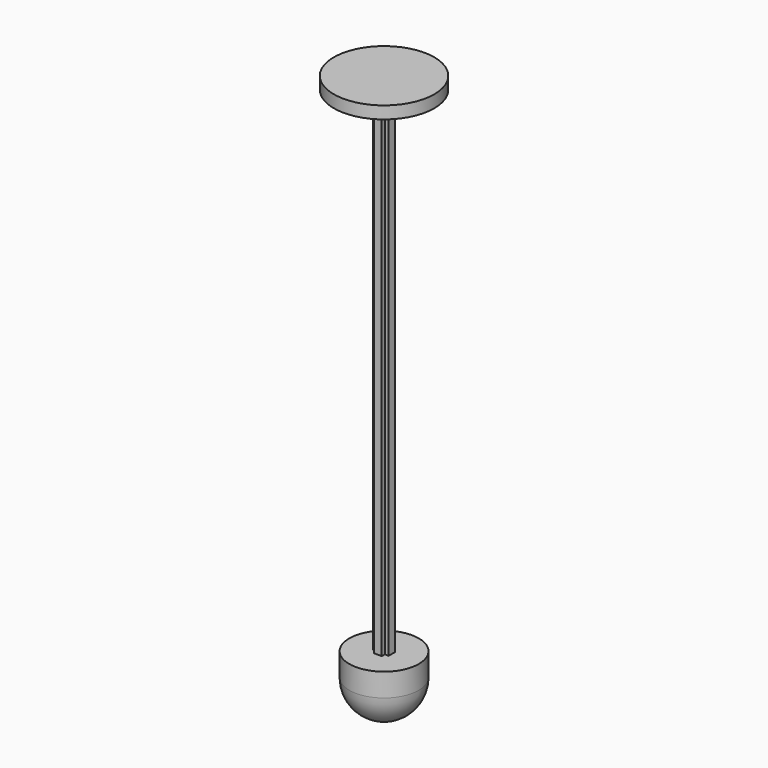
from build123d import *

# Parameters (mm, degrees)
F0_R     = 6.5
F1_DEPTH = 1.6
F3_DEPTH = 64
F4_R     = 4.5
F5_DEPTH = 7.5
F6_R     = 4.5


with BuildPart() as f1:
    # F0 (on Top) → F1 (new body)
    with BuildSketch(Plane.XY):
        Circle(F0_R)
    extrude(amount=F1_DEPTH)

    # F2 (on face) → F3 (join)
    with BuildSketch(Plane(origin=(0, 0, 0), x_dir=(1, 0, 0), z_dir=(0, 0, -1))):
        Polygon((0.5, 1), (0, 1), (-0.5, 1), (-0.5, 0.5), (-1, 0.5), (-1, 0), (-1, -0.5), (-0.5, -0.5), (-0.5, -1), (0, -1), (0.5, -1), (0.5, -0.5), (1, -0.5), (1, 0), (1, 0.5), (0.5, 0.5), align=None)
    extrude(amount=F3_DEPTH)

    # F4 (on face) → F5 (join)
    with BuildSketch(Plane(origin=(0, 0, -64), x_dir=(1, 0, 0), z_dir=(0, 0, -1))):
        Circle(F4_R)
        Polygon((-0.5, 1), (0.5, 1), (0.5, 0.5), (1, 0.5), (1, -0.5), (0.5, -0.5), (0.5, -1), (-0.5, -1), (-0.5, -0.5), (-1, -0.5), (-1, 0.5), (-0.5, 0.5), align=None, mode=Mode.SUBTRACT)
        Polygon((0.5, 0.5), (0.5, 1), (-0.5, 1), (-0.5, 0.5), (-1, 0.5), (-1, -0.5), (-0.5, -0.5), (-0.5, -1), (0.5, -1), (0.5, -0.5), (1, -0.5), (1, 0.5), align=None)
    extrude(amount=F5_DEPTH)

    # F6
    f6_edges = [f1.edges().sort_by_distance(p)[0] for p in [
        (-4.5, 0, -71.5),
    ]]
    fillet(f6_edges, radius=F6_R)


solid = f1.part
